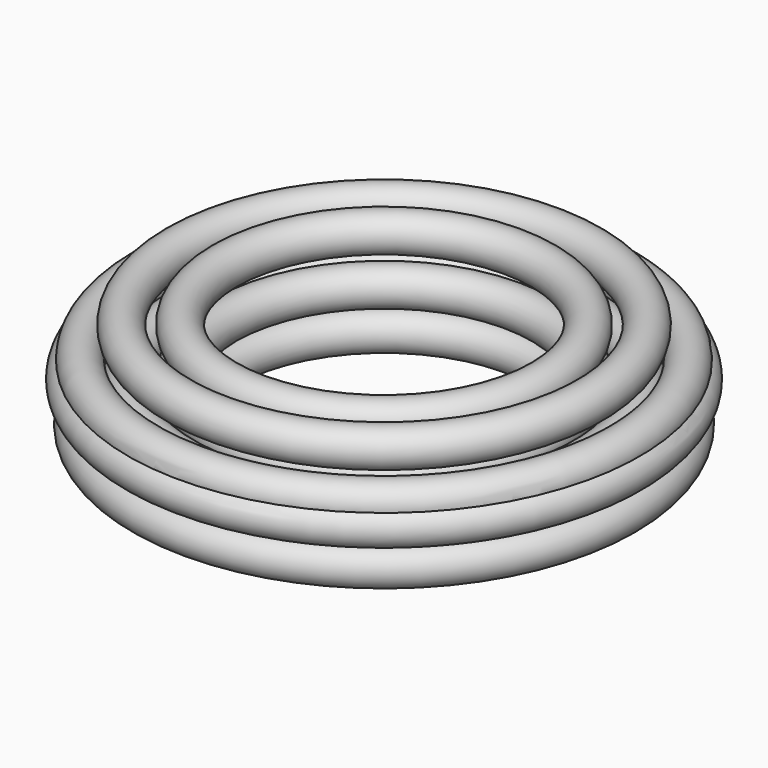
from build123d import *

# Parameters (mm, degrees)
F0_R = 1.63082


with BuildPart() as f1:
    # F0 (on Front) → F1 (revolve)
    with BuildSketch(Plane.XZ):
        with Locations((-17.609524, 10.161392)):
            Circle(F0_R)
        with BuildLine():
            ThreePointArc((-22.289709, 16.394601), (-21.344241, 15.065819), (-19.720748, 15.220227))
            ThreePointArc((-19.720748, 15.220227), (-20.666216, 16.54901), (-22.289709, 16.394601))
        make_face()
        with BuildLine():
            ThreePointArc((-22.289709, 16.394601), (-22.091798, 13.616429), (-19.713421, 15.065819))
            ThreePointArc((-19.713421, 15.065819), (-19.715254, 15.14311), (-19.720748, 15.220227))
            ThreePointArc((-19.720748, 15.220227), (-21.344241, 15.065819), (-22.289709, 16.394601))
        make_face()
        with BuildLine():
            ThreePointArc((-22.289709, 16.394601), (-20.666216, 16.54901), (-19.720748, 15.220227))
            ThreePointArc((-19.720748, 15.220227), (-19.216826, 15.801452), (-19.035396, 16.54901))
            ThreePointArc((-19.035396, 16.54901), (-20.743507, 18.177997), (-22.289709, 16.394601))
        make_face()
        with Locations((-17.87629, 19.215718)):
            Circle(F0_R)
        with Locations((-17.57342, 14.466912)):
            Circle(F0_R)
        with Locations((-13.874807, 19.215718)):
            Circle(F0_R)
        with Locations((-13.874807, 15.065819)):
            Circle(F0_R)
        with Locations((-13.874807, 11.67044)):
            Circle(F0_R)
        with Locations((-20.810708, 11.67044)):
            Circle(F0_R)
    revolve(axis=Axis((0, 0, 16.209964), (0, 0, -1)))


solid = f1.part
